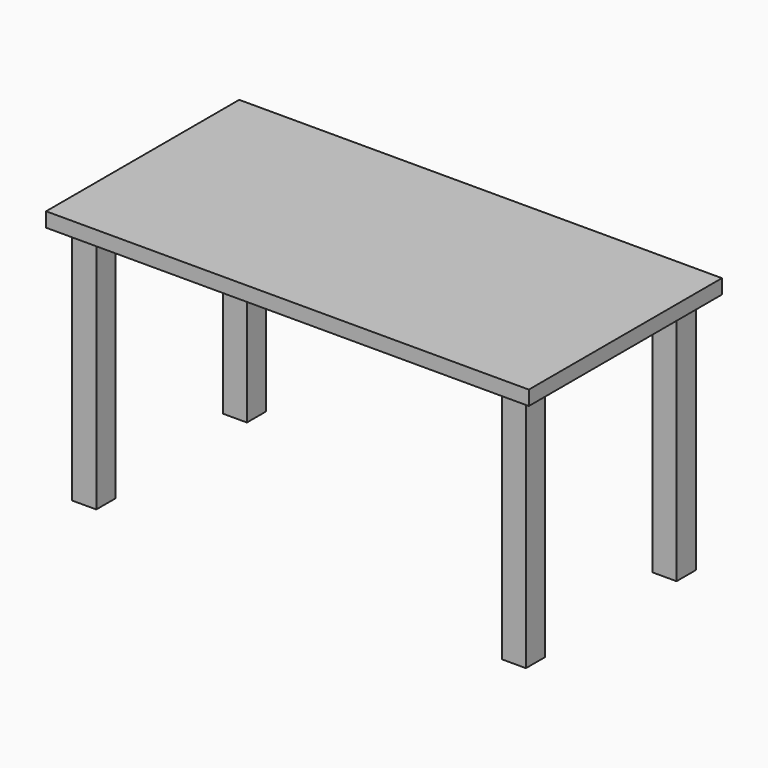
from build123d import *

# Parameters (mm, degrees)
SKETCH_W           = 100
SKETCH_H           = 50
PAD_DEPTH          = 3
SKETCH001_W        = 5
SKETCH001_H        = 5
PAD001_DEPTH       = 50
POLARPATTERN_COUNT = 2


with BuildPart() as part:
    # Sketch → Pad (new body)
    with BuildSketch(Plane.XY):
        Rectangle(SKETCH_W, SKETCH_H)
    extrude(amount=PAD_DEPTH)

    # Sketch001 (on Face5 of Pad) → Pad001 (join)
    with BuildSketch(Plane(origin=(0, 0, 0), x_dir=(1, 0, 0), z_dir=(0, 0, -1))):
        with Locations((44.5, 19.5)):
            Rectangle(SKETCH001_W, SKETCH001_H)
    pad001 = extrude(amount=PAD001_DEPTH)

    # Mirrored: Pad001 across Sketch001 V_Axis
    add(pad001.mirror(Plane(origin=(0, 0, 0), x_dir=(0, 0, -1), z_dir=(1, 0, 0))))

    # PolarPattern: Pad001 ×2 about axis
    polarpattern_axis = Axis((0, 0, 0), (0, 0, -1))
    for i in range(1, POLARPATTERN_COUNT):
        add(pad001.rotate(polarpattern_axis, i * 360 / POLARPATTERN_COUNT))

    # Mirrored001: Pad001 across Sketch001 H_Axis
    add(pad001.mirror(Plane(origin=(0, 0, 0), x_dir=(0, 0, -1), z_dir=(0, -1, 0))))


solid = part.part
